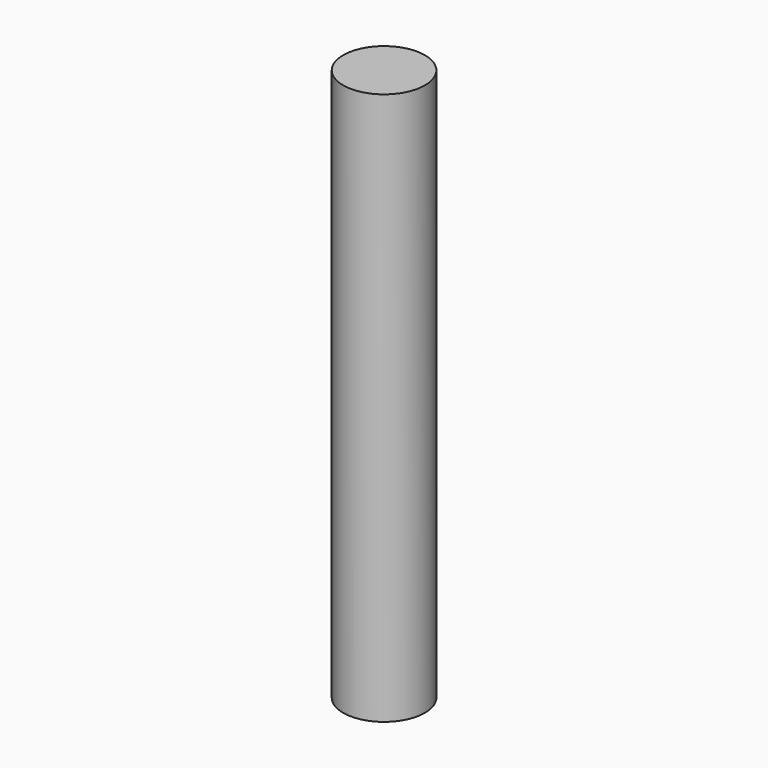
from build123d import *

# Parameters (mm, degrees)
F0_R      = 32.876933
F1_DEPTH  = 25.4
F1_FACE_R = 32.876933
F2_DEPTH  = 419.1


with BuildPart() as f1:
    # F0 (on Top) → F1 (new body)
    with BuildSketch(Plane.XY):
        Circle(F0_R)
    extrude(amount=F1_DEPTH)

    # F1_face (on face) → F2 (join)
    with BuildSketch(Plane.XY.offset(25.4)):
        Circle(F1_FACE_R)
        Circle(F1_FACE_R)
    extrude(amount=F2_DEPTH)


solid = f1.part
